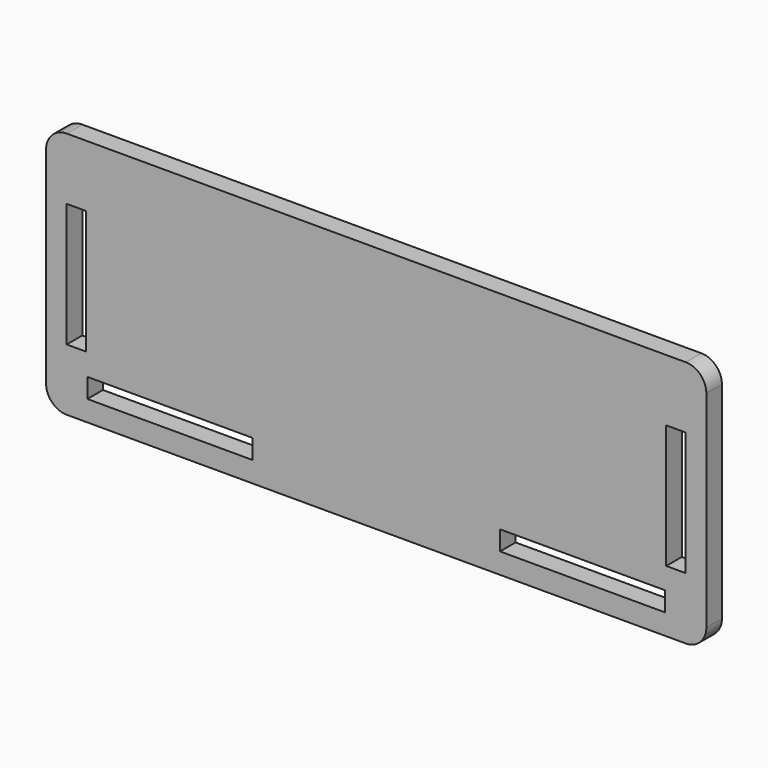
from build123d import *

# Parameters (mm, degrees)
F0_W     = 25.4
F0_H     = 2.9972
F0_W_2   = 2.9972
F0_H_2   = 19.05
F1_DEPTH = 2.9972


with BuildPart() as f1:
    # F0 (on Front) → F1 (new body)
    with BuildSketch(Plane.XZ):
        with BuildLine():
            ThreePointArc((-50.8, 3.175), (-49.870064, 0.929936), (-47.625, 0))
            Line((-47.625, 0), (47.625, 0))
            ThreePointArc((47.625, 0), (49.870064, 0.929936), (50.8, 3.175))
            Line((50.8, 3.175), (50.8, 34.925))
            ThreePointArc((50.8, 34.925), (49.870064, 37.170064), (47.625, 38.1))
            Line((47.625, 38.1), (-47.625, 38.1))
            ThreePointArc((-47.625, 38.1), (-49.870064, 37.170064), (-50.8, 34.925))
            Line((-50.8, 34.925), (-50.8, 3.175))
        make_face()
        with Locations((-31.75, 4.6736)):
            Rectangle(F0_W, F0_H, mode=Mode.SUBTRACT)
        with Locations((31.75, 4.6736)):
            Rectangle(F0_W, F0_H, mode=Mode.SUBTRACT)
        with Locations((-46.1264, 19.05)):
            Rectangle(F0_W_2, F0_H_2, mode=Mode.SUBTRACT)
        with Locations((46.1264, 19.05)):
            Rectangle(F0_W_2, F0_H_2, mode=Mode.SUBTRACT)
    extrude(amount=F1_DEPTH)


solid = f1.part
